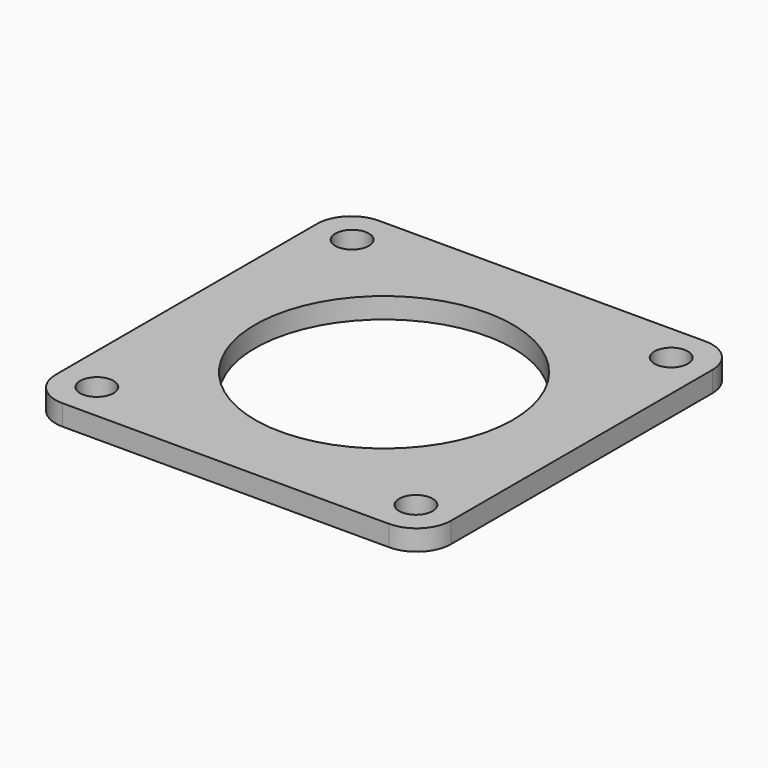
from build123d import *

# Parameters (mm, degrees)
F0_W     = 58.42
F0_H     = 58.42
F0_R     = 2.4765
F0_R_2   = 19.05
F1_DEPTH = 3.048
F2_R     = 5.08
F3_R     = 5.08


with BuildPart() as f1:
    # F0 (on Top) → F1 (new body)
    with BuildSketch(Plane.XY):
        Rectangle(F0_W, F0_H)
        with Locations((-23.573172, -23.573172)):
            Circle(F0_R, mode=Mode.SUBTRACT)
        Circle(F0_R_2, mode=Mode.SUBTRACT)
        with Locations((23.573172, -23.573172)):
            Circle(F0_R, mode=Mode.SUBTRACT)
        with Locations((-23.573172, 23.573172)):
            Circle(F0_R, mode=Mode.SUBTRACT)
        with Locations((23.573172, 23.573172)):
            Circle(F0_R, mode=Mode.SUBTRACT)
    extrude(amount=F1_DEPTH)

    # F2
    f2_edges = [f1.edges().sort_by_distance(p)[0] for p in [
        (-29.21, 29.21, 1.524),
    ]]
    fillet(f2_edges, radius=F2_R)

    # F3
    f3_edges = [f1.edges().sort_by_distance(p)[0] for p in [
        (29.21, 29.21, 1.524),
        (29.21, -29.21, 1.524),
        (-29.21, -29.21, 1.524),
    ]]
    fillet(f3_edges, radius=F3_R)


solid = f1.part
